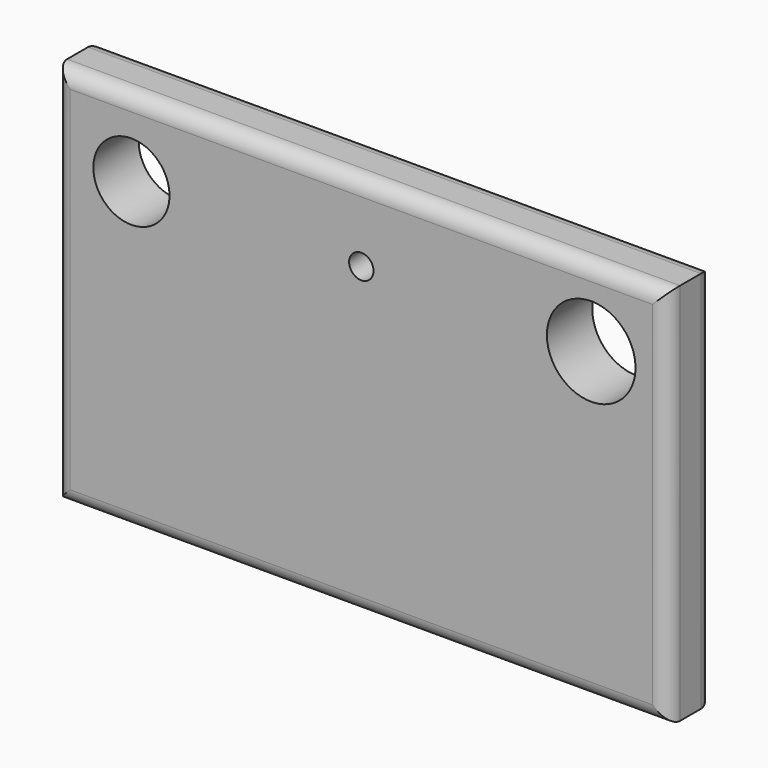
from build123d import *

# Parameters (mm, degrees)
F0_W     = 101.6
F0_H     = 63.5
F1_DEPTH = 9.398
F3_D     = 12.6238
F4_D     = 14.6812
F5_R     = 2.54
F6_D     = 4.0386


with BuildPart() as f1:
    # F0 (on Front) → F1 (new body)
    with BuildSketch(Plane.XZ):
        Rectangle(F0_W, F0_H)
    extrude(amount=F1_DEPTH)

    # F3 (through all)
    with Locations(Plane.XZ.offset(9.398)):
        with Locations((-38.1, 19.05)):
            Hole(F3_D / 2)

    # F4 (through all)
    with Locations(Plane.XZ.offset(9.398)):
        with Locations((38.1, 19.05)):
            Hole(F4_D / 2)

    # F5
    f5_edges = [f1.edges().sort_by_distance(p)[0] for p in [
        (0, -9.398, 31.75),
        (-50.8, -9.398, 0),
        (50.8, -9.398, 0),
        (0, -9.398, -31.75),
        (50.8, 0, 0),
        (-50.8, 0, 0),
        (0, 0, -31.75),
        (0, 0, 31.75),
    ]]
    fillet(f5_edges, radius=F5_R)

    # F6 (through all)
    with Locations(Plane.XZ.offset(9.398)):
        with Locations((0, 19.05)):
            Hole(F6_D / 2)


solid = f1.part
